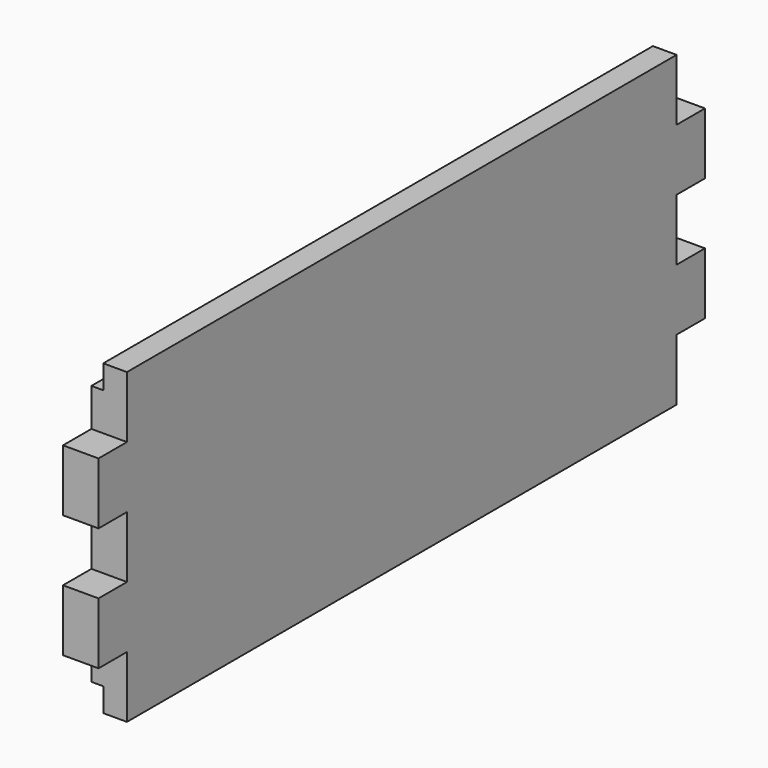
from build123d import *

# Parameters (mm, degrees)
F0_W     = 368.3
F0_H     = 12.7
F0_W_2   = 19.05
F0_H_2   = 33.02
F1_DEPTH = 19.05
F2_DEPTH = 6.35
F3_DEPTH = 6.35


with BuildPart() as f1:
    # F0 (on Right) → F1 (new body)
    with BuildSketch(Plane.YZ):
        with Locations((-24.839816, 101.602047)):
            Rectangle(F0_W, F0_H)
        Polygon((159.310184, 95.252047), (-208.989816, 95.252047), (-208.989816, 74.932047), (-208.989816, 41.912047), (-208.989816, 8.892047), (-208.989816, -24.127953), (-208.989816, -44.447953), (159.310184, -44.447953), (159.310184, -24.127953), (159.310184, 8.892047), (159.310184, 41.912047), (159.310184, 74.932047), align=None)
        with Locations((-218.514816, 58.422047)):
            Rectangle(F0_W_2, F0_H_2)
        with Locations((168.835184, 58.422047)):
            Rectangle(F0_W_2, F0_H_2)
        with Locations((-218.514816, -7.617953)):
            Rectangle(F0_W_2, F0_H_2)
        with Locations((168.835184, -7.617953)):
            Rectangle(F0_W_2, F0_H_2)
        with Locations((-24.839816, -50.797953)):
            Rectangle(F0_W, F0_H)
    extrude(amount=F1_DEPTH)

    # F0 (on Right) → F2 (cut)
    with BuildSketch(Plane.YZ):
        with Locations((-24.839816, 101.602047)):
            Rectangle(F0_W, F0_H)
    extrude(amount=F2_DEPTH, mode=Mode.SUBTRACT)

    # F0 (on Right) → F3 (cut)
    with BuildSketch(Plane.YZ):
        with Locations((-24.839816, -50.797953)):
            Rectangle(F0_W, F0_H)
    extrude(amount=F3_DEPTH, mode=Mode.SUBTRACT)


solid = f1.part
